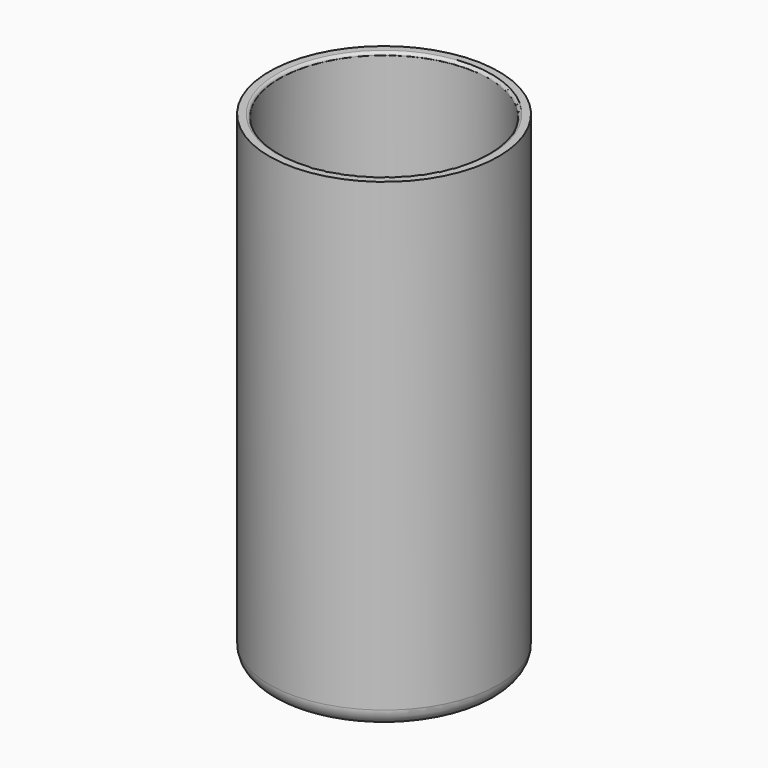
from build123d import *

# Parameters (mm, degrees)
F0_R     = 20
F1_DEPTH = 4
F2_R     = 20
F2_R_2   = 18.25
F3_DEPTH = 80
F4_R     = 0.5
F5_R     = 3


with BuildPart() as f1:
    # F0 (on Top) → F1 (new body)
    with BuildSketch(Plane.XY):
        Circle(F0_R)
    extrude(amount=F1_DEPTH)

    # F2 (on face) → F3 (join)
    with BuildSketch(Plane.XY.offset(4)):
        Circle(F2_R)
        Circle(F2_R_2, mode=Mode.SUBTRACT)
    extrude(amount=F3_DEPTH)

    # F4
    f4_edges = [f1.edges().sort_by_distance(p)[0] for p in [
        (-18.25, 0, 84),
    ]]
    fillet(f4_edges, radius=F4_R)

    # F5
    f5_edges = [f1.edges().sort_by_distance(p)[0] for p in [
        (-20, 0, 0),
    ]]
    fillet(f5_edges, radius=F5_R)


solid = f1.part
